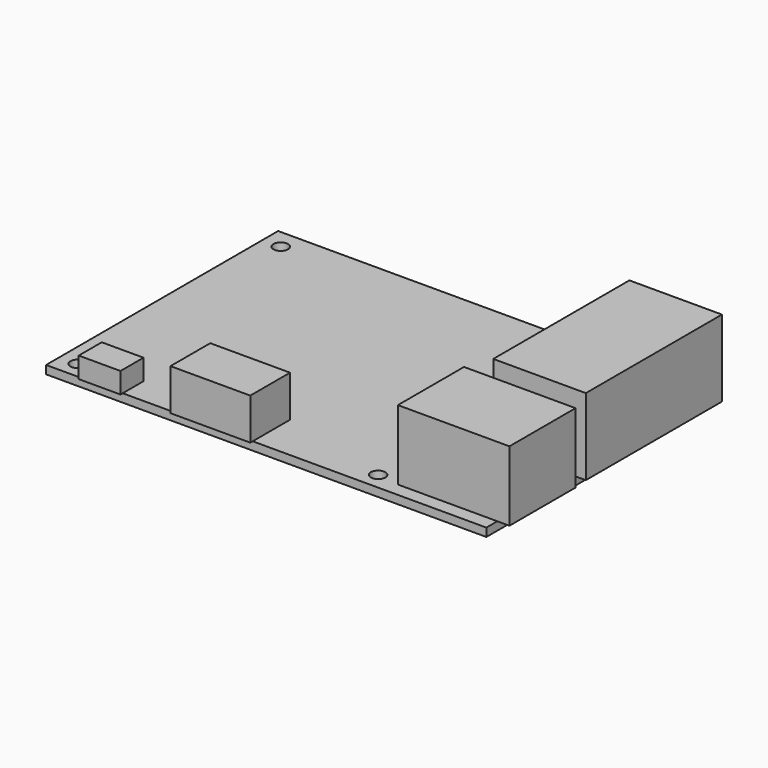
from build123d import *

# Parameters (mm, degrees)
SKETCH_W     = 85
SKETCH_H     = 56
PAD_DEPTH    = 1.6
SKETCH001_R  = 1.4
POCKET_DEPTH = 5
SKETCH002_W  = 17.867575
SKETCH002_H  = 32.844936
PAD001_DEPTH = 14.8
SKETCH003_W  = 21.533829
SKETCH003_H  = 15.952719
PAD002_DEPTH = 13.5
SKETCH004_W  = 18.128704
SKETCH004_H  = 15.222443
PAD003_DEPTH = 1.5
SKETCH005_W  = 8.059815
SKETCH005_H  = 5.559658
PAD004_DEPTH = 4
SKETCH006_W  = 15.403427
SKETCH006_H  = 9.588475
PAD005_DEPTH = 8


with BuildPart() as pad001:
    # Sketch → Pad (new body)
    with BuildSketch(Plane.XY):
        with Locations((-116.737486, 1.084726)):
            Rectangle(SKETCH_W, SKETCH_H)
    extrude(amount=PAD_DEPTH)

    # Sketch001 → Pocket (cut)
    with BuildSketch(Plane.XY.offset(1.6)):
        with Locations((-155.737486, 25.334726)):
            Circle(SKETCH001_R)
        with Locations((-97.737486, 25.334726)):
            Circle(SKETCH001_R)
        with Locations((-97.737486, -23.665274)):
            Circle(SKETCH001_R)
        with Locations((-155.737488, -23.662172)):
            Circle(SKETCH001_R)
    extrude(amount=-POCKET_DEPTH, mode=Mode.SUBTRACT)

    # Sketch002 → Pad001 (new body)
    with BuildSketch(Plane.XY.offset(1.6)):
        with Locations((-81.131173, 10.957084)):
            Rectangle(SKETCH002_W, SKETCH002_H)
    extrude(amount=PAD001_DEPTH)


with BuildPart() as pad004:
    # Pad002 base: copy of Pad001
    add(pad001.part)

    # Sketch003 → Pad002 (new body)
    with BuildSketch(Plane.XY.offset(1.6)):
        with Locations((-82.664124, -16.296502)):
            Rectangle(SKETCH003_W, SKETCH003_H)
    extrude(amount=PAD002_DEPTH)

    # Sketch004 → Pad003 (new body)
    with BuildSketch(Plane(origin=(0, 0, 0), x_dir=(1, 0, 0), z_dir=(0, 0, -1))):
        with Locations((-150.791951, -2.536587)):
            Rectangle(SKETCH004_W, SKETCH004_H)
    extrude(amount=PAD003_DEPTH)

    # Sketch005 → Pad004 (new body)
    with BuildSketch(Plane.XY.offset(1.6)):
        with Locations((-148.477616, -24.671362)):
            Rectangle(SKETCH005_W, SKETCH005_H)
    extrude(amount=PAD004_DEPTH)


with BuildPart() as fusion:
    # Pad005 base: copy of Pad004
    add(pad004.part)

    # Sketch006 → Pad005 (new body)
    with BuildSketch(Plane.XY.offset(1.6)):
        with Locations((-127.049156, -22.703693)):
            Rectangle(SKETCH006_W, SKETCH006_H)
    extrude(amount=PAD005_DEPTH)

    # Fusion: union Pad001, Pad004
    add(pad001.part)
    add(pad004.part)


solid = fusion.part
